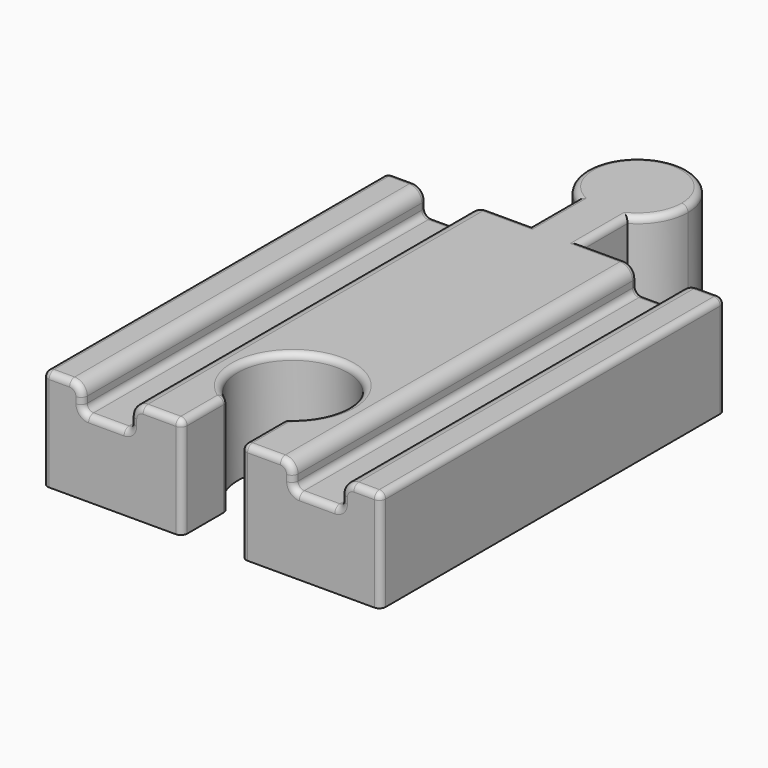
from build123d import *

# Parameters (mm, degrees)
F2_DEPTH = 51
F4_DEPTH = 12
F7_DEPTH = 12
F8_R     = 0.75


with BuildPart() as f2:
    # F1 (on Front) → F2 (new body)
    with BuildSketch(Plane.XZ):
        with BuildLine():
            Line((-16.825, 12), (-20, 12))
            Line((-20, 12), (-20, 0))
            Line((-20, 0), (20, 0))
            Line((20, 0), (20, 12))
            Line((20, 12), (16.825, 12))
            ThreePointArc((16.825, 12), (15.7643398282, 11.5606601718), (15.325, 10.5))
            Line((15.325, 10.5), (15.325, 9))
            Line((15.325, 9), (9.625, 9))
            Line((9.625, 9), (9.625, 10.5))
            ThreePointArc((9.625, 10.5), (9.1856601718, 11.5606601718), (8.125, 12))
            Line((8.125, 12), (-8.125, 12))
            ThreePointArc((-8.125, 12), (-9.1856601718, 11.5606601718), (-9.625, 10.5))
            Line((-9.625, 10.5), (-9.625, 9))
            Line((-9.625, 9), (-15.325, 9))
            Line((-15.325, 9), (-15.325, 10.5))
            ThreePointArc((-15.325, 10.5), (-15.7643398282, 11.5606601718), (-16.825, 12))
        make_face()
    extrude(amount=F2_DEPTH)


with BuildPart() as f4:
    # F3 (on Top) → F4 (new body)
    with BuildSketch(Plane.XY):
        with BuildLine():
            Line((-3, 0), (3, 0))
            Line((3, 0), (3, 6.8038475773))
            ThreePointArc((3, 6.8038475773), (0, 6), (-3, 6.8038475773))
            Line((-3, 6.8038475773), (-3, 0))
        make_face()
        with BuildLine():
            ThreePointArc((-3, 6.8038475773), (0, 6), (3, 6.8038475773))
            Line((3, 6.8038475773), (-3, 6.8038475773))
        make_face()
        with BuildLine():
            Line((-3, 6.8038475773), (3, 6.8038475773))
            ThreePointArc((3, 6.8038475773), (5.1961524227, 9), (6, 12))
            ThreePointArc((6, 12), (-3, 17.1961524227), (-3, 6.8038475773))
        make_face()
    extrude(amount=F4_DEPTH)

    # F5: union F2
    add(f2.part)

    # F6 (on face) → F7 (cut)
    with BuildSketch(Plane(origin=(0, 0, 0), x_dir=(1, 0, 0), z_dir=(0, 0, -1))):
        with BuildLine():
            Line((3.5, 51), (-3.5, 51))
            Line((-3.5, 51), (-3.5, 44.4772255751))
            ThreePointArc((-3.5, 44.4772255751), (0, 45.5), (3.5, 44.4772255751))
            Line((3.5, 44.4772255751), (3.5, 51))
        make_face()
        with BuildLine():
            ThreePointArc((3.5, 44.4772255751), (0, 45.5), (-3.5, 44.4772255751))
            Line((-3.5, 44.4772255751), (3.5, 44.4772255751))
        make_face()
        with BuildLine():
            Line((3.5, 44.4772255751), (-3.5, 44.4772255751))
            ThreePointArc((-3.5, 44.4772255751), (-3.1224989992, 33.2991228745), (6.5, 39))
            ThreePointArc((6.5, 39), (5.7008771255, 42.1224989992), (3.5, 44.4772255751))
        make_face()
    extrude(amount=-F7_DEPTH, mode=Mode.SUBTRACT)

    # F8
    f8_edges = [f4.edges().sort_by_distance(p)[0] for p in [
        (5.5625, 0, 12),
        (3, 3.401924, 12),
        (0, 18, 12),
        (-3, 3.401924, 12),
        (-5.5625, 0, 12),
        (-8.125, -25.5, 12),
        (-5.8125, -51, 12),
        (-3.5, -47.738613, 12),
        (0, -32.5, 12),
        (3.5, -47.738613, 12),
        (5.8125, -51, 12),
        (8.125, -25.5, 12),
        (15.325, -25.5, 9),
        (9.625, -25.5, 9),
        (12.475, 0, 9),
        (12.475, -51, 9),
        (20, -25.5, 12),
        (16.825, -25.5, 12),
        (18.4125, 0, 12),
        (18.4125, -51, 12),
        (-16.825, -25.5, 12),
        (-20, -25.5, 12),
        (-18.4125, 0, 12),
        (-18.4125, -51, 12),
        (-9.625, -25.5, 9),
        (-15.325, -25.5, 9),
        (-12.475, 0, 9),
        (-12.475, -51, 9),
        (-3.5, -44.477226, 6),
        (3.5, -44.477226, 6),
        (20, -51, 6),
        (20, 0, 6),
        (-20, 0, 6),
        (-20, -51, 6),
        (-3.5, -51, 6),
        (3.5, -51, 6),
    ]]
    fillet(f8_edges, radius=F8_R)


solid = f4.part
